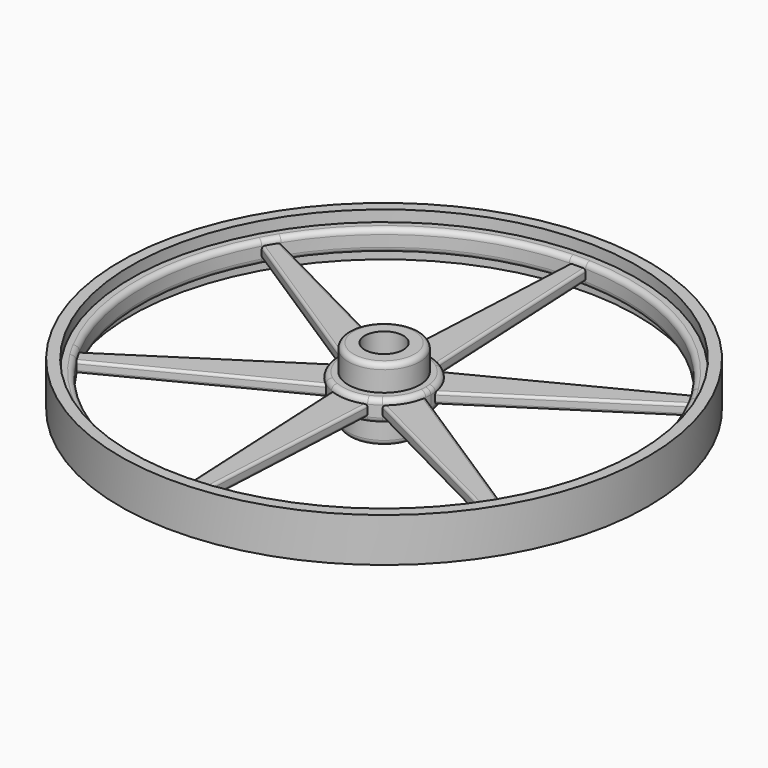
from build123d import *

# Parameters (mm, degrees)
F0_R     = 292.1
F0_R_2   = 41.275
F1_DEPTH = 12.5
F0_R_3   = 304.8
F2_DEPTH = 25.4
F3_DEPTH = 6.35
F0_R_4   = 22.225
F4_DEPTH = 41.91
F5_R     = 6
F6_R     = 3


with BuildPart() as f1:
    # F0 (on Top) → F1 (new body, symmetric)
    with BuildSketch(Plane.XY):
        Circle(F0_R)
        with BuildLine():
            ThreePointArc((237.146913, 147.735241), (241.967498, 139.7), (246.515928, 131.507631))
            ThreePointArc((246.515928, 131.507631), (271.05434, 67.77835), (279.4, 0))
            ThreePointArc((279.4, 0), (271.05434, -67.77835), (246.515928, -131.507631))
            ThreePointArc((246.515928, -131.507631), (241.967498, -139.7), (237.146913, -147.735241))
            ThreePointArc((237.146913, -147.735241), (139.7, -241.967498), (9.369015, -279.242872))
            ThreePointArc((9.369015, -279.242872), (0, -279.4), (-9.369015, -279.242872))
            ThreePointArc((-9.369015, -279.242872), (-139.7, -241.967498), (-237.146913, -147.735241))
            ThreePointArc((-237.146913, -147.735241), (-241.967498, -139.7), (-246.515928, -131.507631))
            ThreePointArc((-246.515928, -131.507631), (-279.4, 0), (-246.515928, 131.507631))
            ThreePointArc((-246.515928, 131.507631), (-241.967498, 139.7), (-237.146913, 147.735241))
            ThreePointArc((-237.146913, 147.735241), (-139.7, 241.967498), (-9.369015, 279.242872))
            ThreePointArc((-9.369015, 279.242872), (0, 279.4), (9.369015, 279.242872))
            ThreePointArc((9.369015, 279.242872), (139.7, 241.967498), (237.146913, 147.735241))
        make_face(mode=Mode.SUBTRACT)
        with BuildLine():
            ThreePointArc((53.541189, -6.829477), (53.866438, -3.42162), (53.975, 0))
            ThreePointArc((53.975, 0), (53.866438, 3.42162), (53.541189, 6.829477))
            ThreePointArc((53.541189, 6.829477), (46.743721, 26.9875), (32.685095, 42.953291))
            ThreePointArc((32.685095, 42.953291), (26.9875, 46.743721), (20.856094, 49.782768))
            ThreePointArc((20.856094, 49.782768), (0, 53.975), (-20.856094, 49.782768))
            ThreePointArc((-20.856094, 49.782768), (-26.9875, 46.743721), (-32.685095, 42.953291))
            ThreePointArc((-32.685095, 42.953291), (-46.743721, 26.9875), (-53.541189, 6.829477))
            ThreePointArc((-53.541189, 6.829477), (-53.975, 0), (-53.541189, -6.829477))
            ThreePointArc((-53.541189, -6.829477), (-46.743721, -26.9875), (-32.685095, -42.953291))
            ThreePointArc((-32.685095, -42.953291), (-26.9875, -46.743721), (-20.856094, -49.782768))
            ThreePointArc((-20.856094, -49.782768), (0, -53.975), (20.856094, -49.782768))
            ThreePointArc((20.856094, -49.782768), (26.9875, -46.743721), (32.685095, -42.953291))
            ThreePointArc((32.685095, -42.953291), (46.743721, -26.9875), (53.541189, -6.829477))
        make_face()
        Circle(F0_R_2, mode=Mode.SUBTRACT)
    extrude(amount=F1_DEPTH, both=True)

    # F0 (on Top) → F2 (join, symmetric)
    with BuildSketch(Plane.XY):
        Circle(F0_R_3)
        Circle(F0_R, mode=Mode.SUBTRACT)
    extrude(amount=F2_DEPTH, both=True)

    # F0 (on Top) → F4 (join, symmetric)
    with BuildSketch(Plane.XY):
        Circle(F0_R_2)
        Circle(F0_R_4, mode=Mode.SUBTRACT)
    extrude(amount=F4_DEPTH, both=True)

    # F5
    f5_edges = [f1.edges().sort_by_distance(p)[0] for p in [
        (-41.275, 0, 41.91),
        (-41.275, 0, -41.91),
        (-53.975, 0, 12.5),
        (-53.975, 0, -12.5),
        (-279.4, 0, 12.5),
        (-279.4, 0, -12.5),
    ]]
    fillet(f5_edges, radius=F5_R)


with BuildPart() as f3:
    # F0 (on Top) → F3 (new body, symmetric)
    with BuildSketch(Plane.XY):
        with BuildLine():
            Line((-237.146913, -147.735241), (-32.685095, -42.953291))
            ThreePointArc((-32.685095, -42.953291), (-46.743721, -26.9875), (-53.541189, -6.829477))
            Line((-53.541189, -6.829477), (-246.515928, -131.507631))
            ThreePointArc((-246.515928, -131.507631), (-241.967498, -139.7), (-237.146913, -147.735241))
        make_face()
        with BuildLine():
            ThreePointArc((-53.541189, 6.829477), (-46.743721, 26.9875), (-32.685095, 42.953291))
            Line((-32.685095, 42.953291), (-237.146913, 147.735241))
            ThreePointArc((-237.146913, 147.735241), (-241.967498, 139.7), (-246.515928, 131.507631))
            Line((-246.515928, 131.507631), (-53.541189, 6.829477))
        make_face()
        with BuildLine():
            ThreePointArc((-20.856094, 49.782768), (0, 53.975), (20.856094, 49.782768))
            Line((20.856094, 49.782768), (9.369015, 279.242872))
            ThreePointArc((9.369015, 279.242872), (0, 279.4), (-9.369015, 279.242872))
            Line((-9.369015, 279.242872), (-20.856094, 49.782768))
        make_face()
        with BuildLine():
            ThreePointArc((32.685095, 42.953291), (46.743721, 26.9875), (53.541189, 6.829477))
            Line((53.541189, 6.829477), (246.515928, 131.507631))
            ThreePointArc((246.515928, 131.507631), (241.967498, 139.7), (237.146913, 147.735241))
            Line((237.146913, 147.735241), (32.685095, 42.953291))
        make_face()
        with BuildLine():
            Line((246.515928, -131.507631), (53.541189, -6.829477))
            ThreePointArc((53.541189, -6.829477), (46.743721, -26.9875), (32.685095, -42.953291))
            Line((32.685095, -42.953291), (237.146913, -147.735241))
            ThreePointArc((237.146913, -147.735241), (241.967498, -139.7), (246.515928, -131.507631))
        make_face()
        with BuildLine():
            Line((9.369015, -279.242872), (20.856094, -49.782768))
            ThreePointArc((20.856094, -49.782768), (0, -53.975), (-20.856094, -49.782768))
            Line((-20.856094, -49.782768), (-9.369015, -279.242872))
            ThreePointArc((-9.369015, -279.242872), (0, -279.4), (9.369015, -279.242872))
        make_face()
    extrude(amount=F3_DEPTH, both=True)

    # F6
    f6_edges = [f3.edges().sort_by_distance(p)[0] for p in [
        (150.028559, -69.168554, 6.35),
        (150.028559, -69.168554, -6.35),
        (134.916004, -95.344266, 6.35),
        (150.028559, 69.168554, 6.35),
        (134.916004, 95.344266, 6.35),
        (134.916004, 95.344266, -6.35),
        (15.112554, 164.51282, 6.35),
        (-15.112554, 164.51282, 6.35),
        (-15.112554, 164.51282, -6.35),
        (-134.916004, 95.344266, -6.35),
        (-134.916004, 95.344266, 6.35),
        (-150.028559, 69.168554, 6.35),
        (-150.028559, -69.168554, -6.35),
        (-150.028559, -69.168554, 6.35),
        (-134.916004, -95.344266, 6.35),
        (-15.112554, -164.51282, -6.35),
        (-15.112554, -164.51282, 6.35),
        (15.112554, -164.51282, 6.35),
        (15.112554, -164.51282, -6.35),
        (-134.916004, -95.344266, -6.35),
        (-150.028559, 69.168554, -6.35),
        (150.028559, 69.168554, -6.35),
        (134.916004, -95.344266, -6.35),
        (15.112554, 164.51282, -6.35),
    ]]
    fillet(f6_edges, radius=F6_R)


solid = Compound([f1.part, f3.part])
